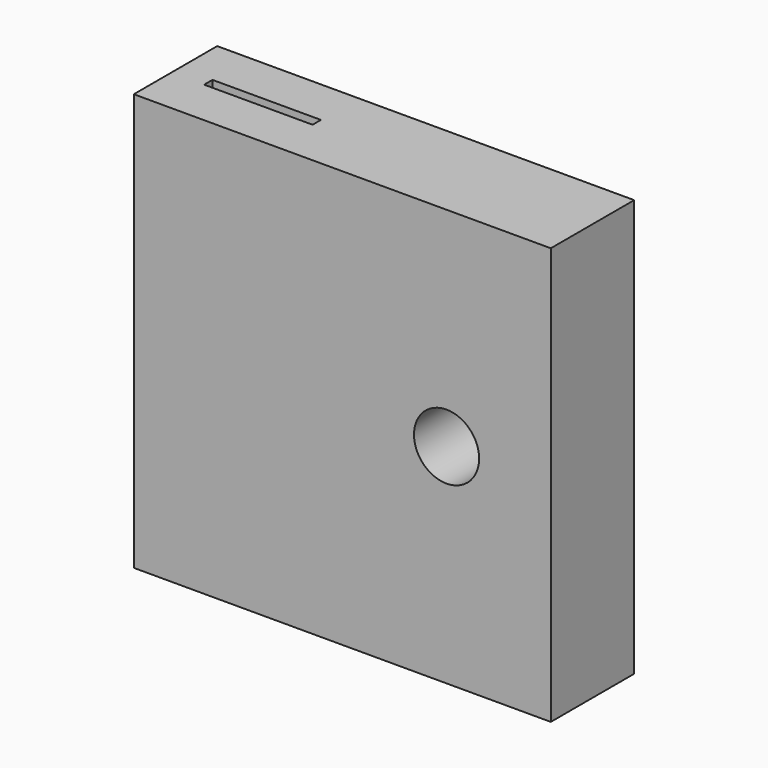
from build123d import *

# Parameters (mm, degrees)
F0_R     = 1.984375
F1_DEPTH = 6.35
F2_W     = 6.604
F2_H     = 0.3175
F3_DEPTH = 76.2


with BuildPart() as f1:
    # F0 (on Front) → F1 (new body)
    with BuildSketch(Plane.XZ):
        Polygon((0, 12.7), (0, 0), (25.4, 0), (25.4, 25.4), (0, 25.4), align=None)
        with Locations((19.05, 12.7)):
            Circle(F0_R, mode=Mode.SUBTRACT)
    extrude(amount=F1_DEPTH)

    # F2 (on face) → F3 (cut)
    with BuildSketch(Plane(origin=(0, 0, 0), x_dir=(1, 0, 0), z_dir=(0, 0, -1))):
        with Locations((5.300516, 3.33375)):
            Rectangle(F2_W, F2_H)
        with Locations((5.300516, 3.01625)):
            Rectangle(F2_W, F2_H)
    extrude(amount=-F3_DEPTH, mode=Mode.SUBTRACT)


solid = f1.part
